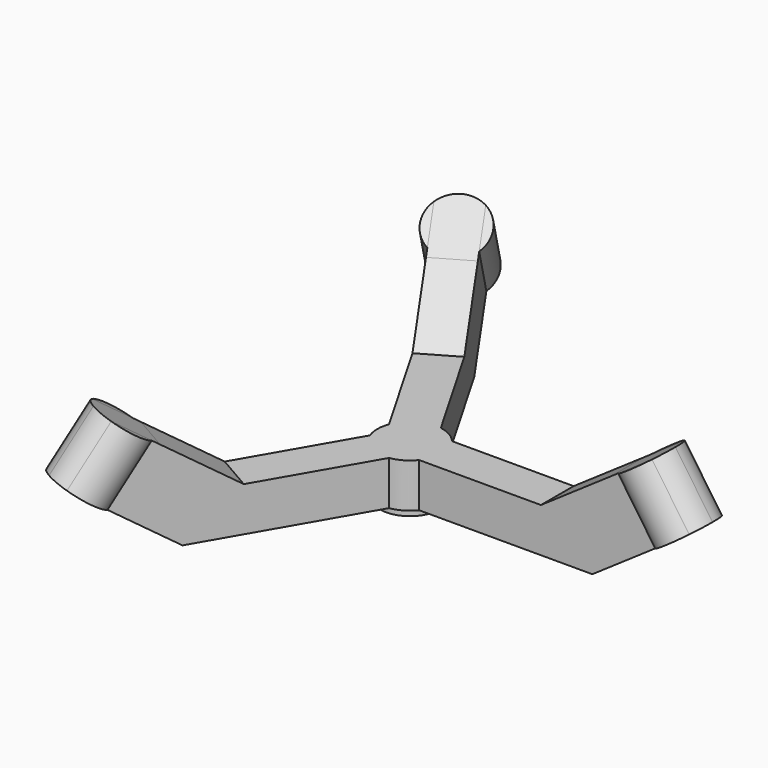
from build123d import *

# Parameters (mm, degrees)
F1_DEPTH  = 3.175
F3_DEPTH  = 10.16
F5_DEPTH  = 19.2661186822
F6_COUNT  = 3
F8_DEPTH  = 6.85
F9_R      = 4.6025
F9_R_2    = 2.0625
F10_DEPTH = 1


with BuildPart() as f1:
    # F0 (on Front) → F1 (new body, symmetric)
    with BuildSketch(Plane.XZ):
        Polygon((0, -5.485), (0, -6.985), (2.0625, -6.985), (2.0625, -12.335), (30.8073278059, -12.335), (46.8930374778, -1.2901832047), (41.1420940815, 7.0855107996), (33.7226801014, 1.9911711769), (22.8343583448, -5.485), align=None)
    extrude(amount=F1_DEPTH, both=True)

    # F2 (on face) → F3 (join, through all)
    with BuildSketch(Plane(origin=(9.8755636575, 0, -14.3828053272), x_dir=(0.8243793311, 0, 0.5660377358), z_dir=(-0.5660377358, 0, 0.8243793311))):
        with BuildLine():
            Line((30.23841274, 3.175), (36.6163042411, 3.175))
            ThreePointArc((36.6163042411, 3.175), (33.4273584906, 4.5), (30.23841274, 3.175))
        make_face()
        with BuildLine():
            ThreePointArc((30.23841274, -3.175), (33.4273584906, -4.5), (36.6163042411, -3.175))
            Line((36.6163042411, -3.175), (30.23841274, -3.175))
        make_face()
        with BuildLine():
            ThreePointArc((36.6163042411, -3.175), (37.5867007389, -1.7175191589), (37.9273584906, 0))
            ThreePointArc((37.9273584906, 0), (37.5867007389, 1.7175191589), (36.6163042411, 3.175))
            Line((36.6163042411, 3.175), (30.23841274, 3.175))
            ThreePointArc((30.23841274, 3.175), (28.9273584906, 0), (30.23841274, -3.175))
            Line((30.23841274, -3.175), (36.6163042411, -3.175))
        make_face()
    extrude(amount=-F3_DEPTH)

    # F4 (on face) → F5 (cut, through all)
    with BuildSketch(Plane(origin=(9.8755636575, 0, -14.3828053272), x_dir=(0.8243793311, 0, 0.5660377358), z_dir=(-0.5660377358, 0, 0.8243793311))):
        with BuildLine():
            Line((36.6163042411, -3.175), (37.9273584906, -3.175))
            Line((37.9273584906, -3.175), (37.9273584906, 0))
            ThreePointArc((37.9273584905, 0), (37.5867007389, -1.7175191589), (36.6163042411, -3.175))
        make_face()
        with BuildLine():
            ThreePointArc((36.6163042411, 3.175), (37.5867007389, 1.7175191589), (37.9273584905, 0))
            Line((37.9273584906, 0), (37.9273584906, 3.175))
            Line((37.9273584906, 3.175), (36.6163042411, 3.175))
        make_face()
    extrude(amount=-F5_DEPTH, mode=Mode.SUBTRACT)

    # F6: F1 ×3 about axis
    f6_axis = Axis((0, 0, -2.7425), (0, 0, -1))


with BuildPart() as f1_1:
    add(f1.part)
    for i in range(1, F6_COUNT):
        add(f1.part.rotate(f6_axis, i * 360 / F6_COUNT))

    # F7 (on face) → F8 (join, through all)
    with BuildSketch(Plane(origin=(0, 0, -12.335), x_dir=(1, 0, 0), z_dir=(0, 0, -1))):
        with BuildLine():
            ThreePointArc((-1.031249974, 1.7861774103), (1.031250013, 1.7861773878), (2.0625, 0))
            Line((2.0625, 0), (2.0625, 3.175))
            Line((2.0625, 3.175), (3.965573729, 3.175))
            ThreePointArc((3.965573729, 3.175), (2.54, 4.3994090512), (0.7668437925, 5.0217875899))
            Line((0.7668437925, 5.0217875899), (1.718380657, 3.3736773953))
            Line((1.718380657, 3.3736773953), (-1.031249974, 1.7861774103))
        make_face()
        with BuildLine():
            Line((2.0625, -3.175), (2.0625, 0))
            ThreePointArc((2.0625, 0), (-1.031250013, -1.7861773878), (-1.031249974, 1.7861774103))
            Line((-1.031249974, 1.7861774103), (-3.780880657, 0.1986773953))
            Line((-3.780880657, 0.1986773953), (-4.7324175215, 1.8467875899))
            ThreePointArc((-4.7324175215, 1.8467875899), (-2.54, -4.3994090512), (3.965573729, -3.175))
            Line((3.965573729, -3.175), (2.0625, -3.175))
        make_face()
    extrude(amount=-F8_DEPTH)

    # F9 (on face) → F10 (join)
    with BuildSketch(Plane(origin=(0, 0, -12.335), x_dir=(1, 0, 0), z_dir=(0, 0, -1))):
        Circle(F9_R)
        Circle(F9_R_2, mode=Mode.SUBTRACT)
    extrude(amount=F10_DEPTH)


solid = f1_1.part
